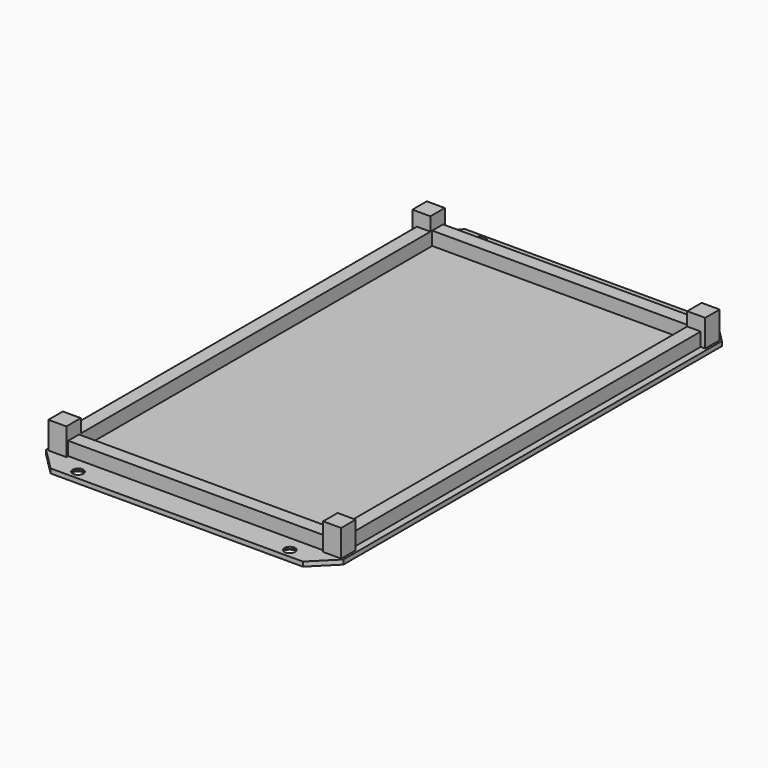
from build123d import *

# Parameters (mm, degrees)
BOX022_W          = 63
BOX022_H          = 3
BOX022_DEPTH      = 3
BOX023_W          = 3
BOX023_H          = 104
BOX023_DEPTH      = 3
BOX024_W          = 3
BOX024_H          = 104
BOX024_DEPTH      = 3
BOX018_W          = 4
BOX018_H          = 4
BOX018_DEPTH      = 6
BOX017_W          = 4
BOX017_H          = 4
BOX017_DEPTH      = 6
BOX020_W          = 4
BOX020_H          = 4
BOX020_DEPTH      = 6
BOX019_W          = 4
BOX019_H          = 4
BOX019_DEPTH      = 6
BOX021_W          = 63
BOX021_H          = 3
BOX021_DEPTH      = 3
CYLINDER001_R     = 1.2
CYLINDER001_DEPTH = 1
CYLINDER002_R     = 1.2
CYLINDER002_DEPTH = 1
CYLINDER003_R     = 1.2
CYLINDER003_DEPTH = 1
CYLINDER_R        = 1.2
CYLINDER_DEPTH    = 1
PAD003_DEPTH      = 1


with BuildPart() as cone002:
    # Cone002 → Cone002 (revolve)
    with BuildSketch(Plane(origin=(10, 109, -16.5), x_dir=(1, 0, 0), z_dir=(0, 1, 0))):
        Polygon((0, 0), (2, 1.5), (0, 1.5), align=None)
    revolve(axis=Axis((10, 109, -16.5), (0, 0, -1)))


with BuildPart() as cone001:
    # Cone001 → Cone001 (revolve)
    with BuildSketch(Plane(origin=(10, -2.5, -16.5), x_dir=(1, 0, 0), z_dir=(0, 1, 0))):
        Polygon((0, 0), (2, 1.5), (0, 1.5), align=None)
    revolve(axis=Axis((10, -2.5, -16.5), (0, 0, -1)))


with BuildPart() as cone003:
    # Cone003 → Cone003 (revolve)
    with BuildSketch(Plane(origin=(57, 109, -16.5), x_dir=(1, 0, 0), z_dir=(0, 1, 0))):
        Polygon((0, 0), (2, 1.5), (0, 1.5), align=None)
    revolve(axis=Axis((57, 109, -16.5), (0, 0, -1)))


with BuildPart() as fusion010:
    # Cone → Cone (revolve)
    with BuildSketch(Plane(origin=(57, -2.5, -16.5), x_dir=(1, 0, 0), z_dir=(0, 1, 0))):
        Polygon((0, 0), (2, 1.5), (0, 1.5), align=None)
    revolve(axis=Axis((57, -2.5, -16.5), (0, 0, -1)))

    # Fusion010: union Cone002, Cone001, Cone003
    add(cone002.part)
    add(cone001.part)
    add(cone003.part)


with BuildPart() as cube022:
    # Box022 → Box022 (new body)
    with BuildSketch(Plane(origin=(2, 102, -17), x_dir=(1, 0, 0), z_dir=(0, 0, 1))):
        with Locations((31.5, 1.5)):
            Rectangle(BOX022_W, BOX022_H)
    extrude(amount=BOX022_DEPTH)


with BuildPart() as cube023:
    # Box023 → Box023 (new body)
    with BuildSketch(Plane(origin=(2, 1, -17), x_dir=(1, 0, 0), z_dir=(0, 0, 1))):
        with Locations((1.5, 52)):
            Rectangle(BOX023_W, BOX023_H)
    extrude(amount=BOX023_DEPTH)


with BuildPart() as cube024:
    # Box024 → Box024 (new body)
    with BuildSketch(Plane(origin=(62, 1, -17), x_dir=(1, 0, 0), z_dir=(0, 0, 1))):
        with Locations((1.5, 52)):
            Rectangle(BOX024_W, BOX024_H)
    extrude(amount=BOX024_DEPTH)


with BuildPart() as cube018:
    # Box018 → Box018 (new body)
    with BuildSketch(Plane(origin=(1, 101.5, -17), x_dir=(1, 0, 0), z_dir=(0, 0, 1))):
        with Locations((2, 2)):
            Rectangle(BOX018_W, BOX018_H)
    extrude(amount=BOX018_DEPTH)


with BuildPart() as cube017:
    # Box017 → Box017 (new body)
    with BuildSketch(Plane(origin=(1, 0.5, -17), x_dir=(1, 0, 0), z_dir=(0, 0, 1))):
        with Locations((2, 2)):
            Rectangle(BOX017_W, BOX017_H)
    extrude(amount=BOX017_DEPTH)


with BuildPart() as cube020:
    # Box020 → Box020 (new body)
    with BuildSketch(Plane(origin=(62, 0.5, -17), x_dir=(1, 0, 0), z_dir=(0, 0, 1))):
        with Locations((2, 2)):
            Rectangle(BOX020_W, BOX020_H)
    extrude(amount=BOX020_DEPTH)


with BuildPart() as cube019:
    # Box019 → Box019 (new body)
    with BuildSketch(Plane(origin=(62, 101.5, -17), x_dir=(1, 0, 0), z_dir=(0, 0, 1))):
        with Locations((2, 2)):
            Rectangle(BOX019_W, BOX019_H)
    extrude(amount=BOX019_DEPTH)


with BuildPart() as fusion011:
    # Box021 → Box021 (new body)
    with BuildSketch(Plane(origin=(2, 1, -17), x_dir=(1, 0, 0), z_dir=(0, 0, 1))):
        with Locations((31.5, 1.5)):
            Rectangle(BOX021_W, BOX021_H)
    extrude(amount=BOX021_DEPTH)

    # Fusion011: union Cube022, Cube023, Cube024, Cube018, Cube017, Cube020, Cube019
    add(cube022.part)
    add(cube023.part)
    add(cube024.part)
    add(cube018.part)
    add(cube017.part)
    add(cube020.part)
    add(cube019.part)


with BuildPart() as cylinder001:
    # Cylinder001 → Cylinder001 (new body)
    with BuildSketch(Plane(origin=(57, -2.5, -18), x_dir=(1, 0, 0), z_dir=(0, 0, 1))):
        Circle(CYLINDER001_R)
    extrude(amount=CYLINDER001_DEPTH)


with BuildPart() as cylinder002:
    # Cylinder002 → Cylinder002 (new body)
    with BuildSketch(Plane(origin=(57, 109, -18), x_dir=(1, 0, 0), z_dir=(0, 0, 1))):
        Circle(CYLINDER002_R)
    extrude(amount=CYLINDER002_DEPTH)


with BuildPart() as cylinder003:
    # Cylinder003 → Cylinder003 (new body)
    with BuildSketch(Plane(origin=(10, 109, -18), x_dir=(1, 0, 0), z_dir=(0, 0, 1))):
        Circle(CYLINDER003_R)
    extrude(amount=CYLINDER003_DEPTH)


with BuildPart() as fusion006:
    # Cylinder → Cylinder (new body)
    with BuildSketch(Plane(origin=(10, -2.5, -18), x_dir=(1, 0, 0), z_dir=(0, 0, 1))):
        Circle(CYLINDER_R)
    extrude(amount=CYLINDER_DEPTH)

    # Fusion006: union Cylinder001, Cylinder002, Cylinder003
    add(cylinder001.part)
    add(cylinder002.part)
    add(cylinder003.part)


with BuildPart() as cut004:
    # Sketch003 → Pad003 (new body)
    with BuildSketch(Plane.XY.offset(-18)):
        Polygon((0.5, 0.5), (5.5, -4.5), (61.5, -4.5), (66.5, 0.5), (66.5, 105.5), (61.5, 110.5), (5.5, 110.5), (0.5, 105.5), align=None)
    extrude(amount=PAD003_DEPTH)

    # Cut002: cut Fusion006
    add(fusion006.part, mode=Mode.SUBTRACT)

    # Fusion012: union Fusion011
    add(fusion011.part)

    # Cut004: cut Fusion010
    add(fusion010.part, mode=Mode.SUBTRACT)


solid = cut004.part
